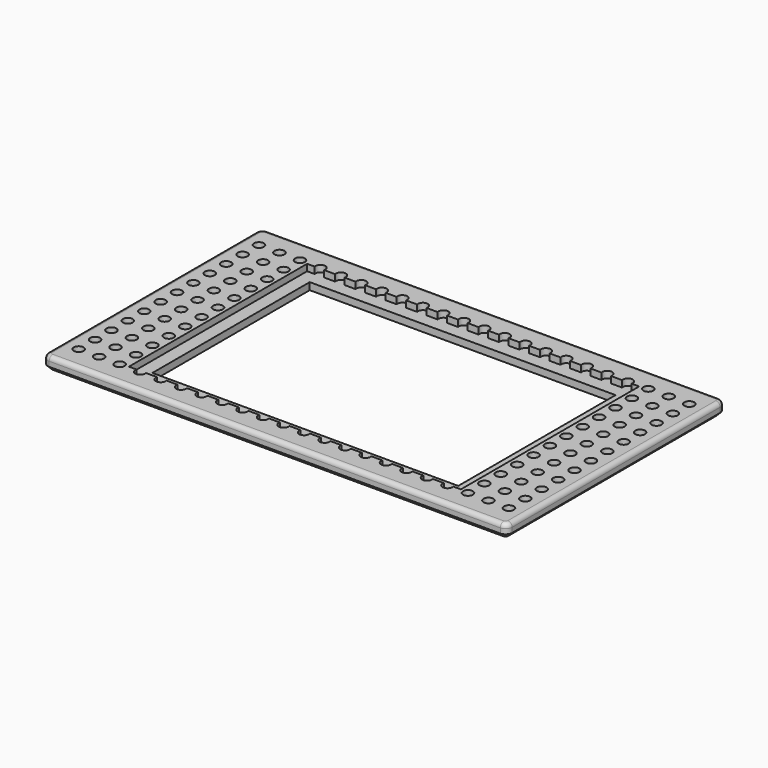
from build123d import *

# Parameters (mm, degrees)
F0_W      = 53.975
F0_H      = 31.75
F1_DEPTH  = 1.5875
F2_R      = 0.5715
F3_DEPTH  = 0.762
F4_R      = 0.762
F5_R      = 0.508
F6_SIZE   = 0.508
F7_W      = 38.608
F7_H      = 25.908
F8_DEPTH  = 0.762
F9_W      = 35.56
F9_H      = 22.86
F10_DEPTH = 25.4


with BuildPart() as f1:
    # F0 (on Top) → F1 (new body)
    with BuildSketch(Plane.XY):
        Rectangle(F0_W, F0_H)
    extrude(amount=F1_DEPTH)

    # F2 (on face) → F3 (cut)
    with BuildSketch(Plane.XY.offset(1.5875)):
        with Locations((-25.01646, -13.1064)):
            Circle(F2_R)
        with Locations((-25.01646, -10.72388)):
            Circle(F2_R)
        with Locations((-25.01646, -8.34136)):
            Circle(F2_R)
        with Locations((-25.01646, -5.95884)):
            Circle(F2_R)
        with Locations((-25.01646, -3.57632)):
            Circle(F2_R)
        with Locations((-25.01646, -1.1938)):
            Circle(F2_R)
        with Locations((-25.01646, 1.18872)):
            Circle(F2_R)
        with Locations((-25.01646, 3.57124)):
            Circle(F2_R)
        with Locations((-25.01646, 5.95376)):
            Circle(F2_R)
        with Locations((-25.01646, 8.33628)):
            Circle(F2_R)
        with Locations((-25.01646, 10.7188)):
            Circle(F2_R)
        with Locations((-25.01646, 13.10132)):
            Circle(F2_R)
        with Locations((-22.63394, -13.1064)):
            Circle(F2_R)
        with Locations((-22.63394, -10.72388)):
            Circle(F2_R)
        with Locations((-22.63394, -8.34136)):
            Circle(F2_R)
        with Locations((-22.63394, -5.95884)):
            Circle(F2_R)
        with Locations((-22.63394, -3.57632)):
            Circle(F2_R)
        with Locations((-22.63394, -1.1938)):
            Circle(F2_R)
        with Locations((-22.63394, 1.18872)):
            Circle(F2_R)
        with Locations((-22.63394, 3.57124)):
            Circle(F2_R)
        with Locations((-22.63394, 5.95376)):
            Circle(F2_R)
        with Locations((-22.63394, 8.33628)):
            Circle(F2_R)
        with Locations((-22.63394, 10.7188)):
            Circle(F2_R)
        with Locations((-22.63394, 13.10132)):
            Circle(F2_R)
        with Locations((-20.25142, -13.1064)):
            Circle(F2_R)
        with Locations((-20.25142, -10.72388)):
            Circle(F2_R)
        with Locations((-20.25142, -8.34136)):
            Circle(F2_R)
        with Locations((-20.25142, -5.95884)):
            Circle(F2_R)
        with Locations((-20.25142, -3.57632)):
            Circle(F2_R)
        with Locations((-20.25142, -1.1938)):
            Circle(F2_R)
        with Locations((-20.25142, 1.18872)):
            Circle(F2_R)
        with Locations((-20.25142, 3.57124)):
            Circle(F2_R)
        with Locations((-20.25142, 5.95376)):
            Circle(F2_R)
        with Locations((-20.25142, 8.33628)):
            Circle(F2_R)
        with Locations((-20.25142, 10.7188)):
            Circle(F2_R)
        with Locations((-20.25142, 13.10132)):
            Circle(F2_R)
        with Locations((-17.8689, -13.1064)):
            Circle(F2_R)
        with Locations((-17.8689, -10.72388)):
            Circle(F2_R)
        with Locations((-17.8689, -8.34136)):
            Circle(F2_R)
        with Locations((-17.8689, -5.95884)):
            Circle(F2_R)
        with Locations((-17.8689, -3.57632)):
            Circle(F2_R)
        with Locations((-17.8689, -1.1938)):
            Circle(F2_R)
        with Locations((-17.8689, 1.18872)):
            Circle(F2_R)
        with Locations((-17.8689, 3.57124)):
            Circle(F2_R)
        with Locations((-17.8689, 5.95376)):
            Circle(F2_R)
        with Locations((-17.8689, 8.33628)):
            Circle(F2_R)
        with Locations((-17.8689, 10.7188)):
            Circle(F2_R)
        with Locations((-17.8689, 13.10132)):
            Circle(F2_R)
        with Locations((-15.48638, -13.1064)):
            Circle(F2_R)
        with Locations((-15.48638, -10.72388)):
            Circle(F2_R)
        with Locations((-15.48638, -8.34136)):
            Circle(F2_R)
        with Locations((-15.48638, -5.95884)):
            Circle(F2_R)
        with Locations((-15.48638, -3.57632)):
            Circle(F2_R)
        with Locations((-15.48638, -1.1938)):
            Circle(F2_R)
        with Locations((-15.48638, 1.18872)):
            Circle(F2_R)
        with Locations((-15.48638, 3.57124)):
            Circle(F2_R)
        with Locations((-15.48638, 5.95376)):
            Circle(F2_R)
        with Locations((-15.48638, 8.33628)):
            Circle(F2_R)
        with Locations((-15.48638, 10.7188)):
            Circle(F2_R)
        with Locations((-15.48638, 13.10132)):
            Circle(F2_R)
        with Locations((-13.10386, -13.1064)):
            Circle(F2_R)
        with Locations((-13.10386, -10.72388)):
            Circle(F2_R)
        with Locations((-13.10386, -8.34136)):
            Circle(F2_R)
        with Locations((-13.10386, -5.95884)):
            Circle(F2_R)
        with Locations((-13.10386, -3.57632)):
            Circle(F2_R)
        with Locations((-13.10386, -1.1938)):
            Circle(F2_R)
        with Locations((-13.10386, 1.18872)):
            Circle(F2_R)
        with Locations((-13.10386, 3.57124)):
            Circle(F2_R)
        with Locations((-13.10386, 5.95376)):
            Circle(F2_R)
        with Locations((-13.10386, 8.33628)):
            Circle(F2_R)
        with Locations((-13.10386, 10.7188)):
            Circle(F2_R)
        with Locations((-13.10386, 13.10132)):
            Circle(F2_R)
        with Locations((-10.72134, -13.1064)):
            Circle(F2_R)
        with Locations((-10.72134, -10.72388)):
            Circle(F2_R)
        with Locations((-10.72134, -8.34136)):
            Circle(F2_R)
        with Locations((-10.72134, -5.95884)):
            Circle(F2_R)
        with Locations((-10.72134, -3.57632)):
            Circle(F2_R)
        with Locations((-10.72134, -1.1938)):
            Circle(F2_R)
        with Locations((-10.72134, 1.18872)):
            Circle(F2_R)
        with Locations((-10.72134, 3.57124)):
            Circle(F2_R)
        with Locations((-10.72134, 5.95376)):
            Circle(F2_R)
        with Locations((-10.72134, 8.33628)):
            Circle(F2_R)
        with Locations((-10.72134, 10.7188)):
            Circle(F2_R)
        with Locations((-10.72134, 13.10132)):
            Circle(F2_R)
        with Locations((-8.33882, -13.1064)):
            Circle(F2_R)
        with Locations((-8.33882, -10.72388)):
            Circle(F2_R)
        with Locations((-8.33882, -8.34136)):
            Circle(F2_R)
        with Locations((-8.33882, -5.95884)):
            Circle(F2_R)
        with Locations((-8.33882, -3.57632)):
            Circle(F2_R)
        with Locations((-8.33882, -1.1938)):
            Circle(F2_R)
        with Locations((-8.33882, 1.18872)):
            Circle(F2_R)
        with Locations((-8.33882, 3.57124)):
            Circle(F2_R)
        with Locations((-8.33882, 5.95376)):
            Circle(F2_R)
        with Locations((-8.33882, 8.33628)):
            Circle(F2_R)
        with Locations((-8.33882, 10.7188)):
            Circle(F2_R)
        with Locations((-8.33882, 13.10132)):
            Circle(F2_R)
        with Locations((-5.9563, -13.1064)):
            Circle(F2_R)
        with Locations((-5.9563, -10.72388)):
            Circle(F2_R)
        with Locations((-5.9563, -8.34136)):
            Circle(F2_R)
        with Locations((-5.9563, -5.95884)):
            Circle(F2_R)
        with Locations((-5.9563, -3.57632)):
            Circle(F2_R)
        with Locations((-5.9563, -1.1938)):
            Circle(F2_R)
        with Locations((-5.9563, 1.18872)):
            Circle(F2_R)
        with Locations((-5.9563, 3.57124)):
            Circle(F2_R)
        with Locations((-5.9563, 5.95376)):
            Circle(F2_R)
        with Locations((-5.9563, 8.33628)):
            Circle(F2_R)
        with Locations((-5.9563, 10.7188)):
            Circle(F2_R)
        with Locations((-5.9563, 13.10132)):
            Circle(F2_R)
        with Locations((-3.57378, -13.1064)):
            Circle(F2_R)
        with Locations((-3.57378, -10.72388)):
            Circle(F2_R)
        with Locations((-3.57378, -8.34136)):
            Circle(F2_R)
        with Locations((-3.57378, -5.95884)):
            Circle(F2_R)
        with Locations((-3.57378, -3.57632)):
            Circle(F2_R)
        with Locations((-3.57378, -1.1938)):
            Circle(F2_R)
        with Locations((-3.57378, 1.18872)):
            Circle(F2_R)
        with Locations((-3.57378, 3.57124)):
            Circle(F2_R)
        with Locations((-3.57378, 5.95376)):
            Circle(F2_R)
        with Locations((-3.57378, 8.33628)):
            Circle(F2_R)
        with Locations((-3.57378, 10.7188)):
            Circle(F2_R)
        with Locations((-3.57378, 13.10132)):
            Circle(F2_R)
        with Locations((-1.19126, -13.1064)):
            Circle(F2_R)
        with Locations((-1.19126, -10.72388)):
            Circle(F2_R)
        with Locations((-1.19126, -8.34136)):
            Circle(F2_R)
        with Locations((-1.19126, -5.95884)):
            Circle(F2_R)
        with Locations((-1.19126, -3.57632)):
            Circle(F2_R)
        with Locations((-1.19126, -1.1938)):
            Circle(F2_R)
        with Locations((-1.19126, 1.18872)):
            Circle(F2_R)
        with Locations((-1.19126, 3.57124)):
            Circle(F2_R)
        with Locations((-1.19126, 5.95376)):
            Circle(F2_R)
        with Locations((-1.19126, 8.33628)):
            Circle(F2_R)
        with Locations((-1.19126, 10.7188)):
            Circle(F2_R)
        with Locations((-1.19126, 13.10132)):
            Circle(F2_R)
        with Locations((1.19126, -13.1064)):
            Circle(F2_R)
        with Locations((1.19126, -10.72388)):
            Circle(F2_R)
        with Locations((1.19126, -8.34136)):
            Circle(F2_R)
        with Locations((1.19126, -5.95884)):
            Circle(F2_R)
        with Locations((1.19126, -3.57632)):
            Circle(F2_R)
        with Locations((1.19126, -1.1938)):
            Circle(F2_R)
        with Locations((1.19126, 1.18872)):
            Circle(F2_R)
        with Locations((1.19126, 3.57124)):
            Circle(F2_R)
        with Locations((1.19126, 5.95376)):
            Circle(F2_R)
        with Locations((1.19126, 8.33628)):
            Circle(F2_R)
        with Locations((1.19126, 10.7188)):
            Circle(F2_R)
        with Locations((1.19126, 13.10132)):
            Circle(F2_R)
        with Locations((3.57378, -13.1064)):
            Circle(F2_R)
        with Locations((3.57378, -10.72388)):
            Circle(F2_R)
        with Locations((3.57378, -8.34136)):
            Circle(F2_R)
        with Locations((3.57378, -5.95884)):
            Circle(F2_R)
        with Locations((3.57378, -3.57632)):
            Circle(F2_R)
        with Locations((3.57378, -1.1938)):
            Circle(F2_R)
        with Locations((3.57378, 1.18872)):
            Circle(F2_R)
        with Locations((3.57378, 3.57124)):
            Circle(F2_R)
        with Locations((3.57378, 5.95376)):
            Circle(F2_R)
        with Locations((3.57378, 8.33628)):
            Circle(F2_R)
        with Locations((3.57378, 10.7188)):
            Circle(F2_R)
        with Locations((3.57378, 13.10132)):
            Circle(F2_R)
        with Locations((5.9563, -13.1064)):
            Circle(F2_R)
        with Locations((5.9563, -10.72388)):
            Circle(F2_R)
        with Locations((5.9563, -8.34136)):
            Circle(F2_R)
        with Locations((5.9563, -5.95884)):
            Circle(F2_R)
        with Locations((5.9563, -3.57632)):
            Circle(F2_R)
        with Locations((5.9563, -1.1938)):
            Circle(F2_R)
        with Locations((5.9563, 1.18872)):
            Circle(F2_R)
        with Locations((5.9563, 3.57124)):
            Circle(F2_R)
        with Locations((5.9563, 5.95376)):
            Circle(F2_R)
        with Locations((5.9563, 8.33628)):
            Circle(F2_R)
        with Locations((5.9563, 10.7188)):
            Circle(F2_R)
        with Locations((5.9563, 13.10132)):
            Circle(F2_R)
        with Locations((8.33882, -13.1064)):
            Circle(F2_R)
        with Locations((8.33882, -10.72388)):
            Circle(F2_R)
        with Locations((8.33882, -8.34136)):
            Circle(F2_R)
        with Locations((8.33882, -5.95884)):
            Circle(F2_R)
        with Locations((8.33882, -3.57632)):
            Circle(F2_R)
        with Locations((8.33882, -1.1938)):
            Circle(F2_R)
        with Locations((8.33882, 1.18872)):
            Circle(F2_R)
        with Locations((8.33882, 3.57124)):
            Circle(F2_R)
        with Locations((8.33882, 5.95376)):
            Circle(F2_R)
        with Locations((8.33882, 8.33628)):
            Circle(F2_R)
        with Locations((8.33882, 10.7188)):
            Circle(F2_R)
        with Locations((8.33882, 13.10132)):
            Circle(F2_R)
        with Locations((10.72134, -13.1064)):
            Circle(F2_R)
        with Locations((10.72134, -10.72388)):
            Circle(F2_R)
        with Locations((10.72134, -8.34136)):
            Circle(F2_R)
        with Locations((10.72134, -5.95884)):
            Circle(F2_R)
        with Locations((10.72134, -3.57632)):
            Circle(F2_R)
        with Locations((10.72134, -1.1938)):
            Circle(F2_R)
        with Locations((10.72134, 1.18872)):
            Circle(F2_R)
        with Locations((10.72134, 3.57124)):
            Circle(F2_R)
        with Locations((10.72134, 5.95376)):
            Circle(F2_R)
        with Locations((10.72134, 8.33628)):
            Circle(F2_R)
        with Locations((10.72134, 10.7188)):
            Circle(F2_R)
        with Locations((10.72134, 13.10132)):
            Circle(F2_R)
        with Locations((13.10386, -13.1064)):
            Circle(F2_R)
        with Locations((13.10386, -10.72388)):
            Circle(F2_R)
        with Locations((13.10386, -8.34136)):
            Circle(F2_R)
        with Locations((13.10386, -5.95884)):
            Circle(F2_R)
        with Locations((13.10386, -3.57632)):
            Circle(F2_R)
        with Locations((13.10386, -1.1938)):
            Circle(F2_R)
        with Locations((13.10386, 1.18872)):
            Circle(F2_R)
        with Locations((13.10386, 3.57124)):
            Circle(F2_R)
        with Locations((13.10386, 5.95376)):
            Circle(F2_R)
        with Locations((13.10386, 8.33628)):
            Circle(F2_R)
        with Locations((13.10386, 10.7188)):
            Circle(F2_R)
        with Locations((13.10386, 13.10132)):
            Circle(F2_R)
        with Locations((15.48638, -13.1064)):
            Circle(F2_R)
        with Locations((15.48638, -10.72388)):
            Circle(F2_R)
        with Locations((15.48638, -8.34136)):
            Circle(F2_R)
        with Locations((15.48638, -5.95884)):
            Circle(F2_R)
        with Locations((15.48638, -3.57632)):
            Circle(F2_R)
        with Locations((15.48638, -1.1938)):
            Circle(F2_R)
        with Locations((15.48638, 1.18872)):
            Circle(F2_R)
        with Locations((15.48638, 3.57124)):
            Circle(F2_R)
        with Locations((15.48638, 5.95376)):
            Circle(F2_R)
        with Locations((15.48638, 8.33628)):
            Circle(F2_R)
        with Locations((15.48638, 10.7188)):
            Circle(F2_R)
        with Locations((15.48638, 13.10132)):
            Circle(F2_R)
        with Locations((17.8689, -13.1064)):
            Circle(F2_R)
        with Locations((17.8689, -10.72388)):
            Circle(F2_R)
        with Locations((17.8689, -8.34136)):
            Circle(F2_R)
        with Locations((17.8689, -5.95884)):
            Circle(F2_R)
        with Locations((17.8689, -3.57632)):
            Circle(F2_R)
        with Locations((17.8689, -1.1938)):
            Circle(F2_R)
        with Locations((17.8689, 1.18872)):
            Circle(F2_R)
        with Locations((17.8689, 3.57124)):
            Circle(F2_R)
        with Locations((17.8689, 5.95376)):
            Circle(F2_R)
        with Locations((17.8689, 8.33628)):
            Circle(F2_R)
        with Locations((17.8689, 10.7188)):
            Circle(F2_R)
        with Locations((17.8689, 13.10132)):
            Circle(F2_R)
        with Locations((20.25142, -13.1064)):
            Circle(F2_R)
        with Locations((20.25142, -10.72388)):
            Circle(F2_R)
        with Locations((20.25142, -8.34136)):
            Circle(F2_R)
        with Locations((20.25142, -5.95884)):
            Circle(F2_R)
        with Locations((20.25142, -3.57632)):
            Circle(F2_R)
        with Locations((20.25142, -1.1938)):
            Circle(F2_R)
        with Locations((20.25142, 1.18872)):
            Circle(F2_R)
        with Locations((20.25142, 3.57124)):
            Circle(F2_R)
        with Locations((20.25142, 5.95376)):
            Circle(F2_R)
        with Locations((20.25142, 8.33628)):
            Circle(F2_R)
        with Locations((20.25142, 10.7188)):
            Circle(F2_R)
        with Locations((20.25142, 13.10132)):
            Circle(F2_R)
        with Locations((22.63394, -13.1064)):
            Circle(F2_R)
        with Locations((22.63394, -10.72388)):
            Circle(F2_R)
        with Locations((22.63394, -8.34136)):
            Circle(F2_R)
        with Locations((22.63394, -5.95884)):
            Circle(F2_R)
        with Locations((22.63394, -3.57632)):
            Circle(F2_R)
        with Locations((22.63394, -1.1938)):
            Circle(F2_R)
        with Locations((22.63394, 1.18872)):
            Circle(F2_R)
        with Locations((22.63394, 3.57124)):
            Circle(F2_R)
        with Locations((22.63394, 5.95376)):
            Circle(F2_R)
        with Locations((22.63394, 8.33628)):
            Circle(F2_R)
        with Locations((22.63394, 10.7188)):
            Circle(F2_R)
        with Locations((22.63394, 13.10132)):
            Circle(F2_R)
        with Locations((25.01646, -13.1064)):
            Circle(F2_R)
        with Locations((25.01646, -10.72388)):
            Circle(F2_R)
        with Locations((25.01646, -8.34136)):
            Circle(F2_R)
        with Locations((25.01646, -5.95884)):
            Circle(F2_R)
        with Locations((25.01646, -3.57632)):
            Circle(F2_R)
        with Locations((25.01646, -1.1938)):
            Circle(F2_R)
        with Locations((25.01646, 1.18872)):
            Circle(F2_R)
        with Locations((25.01646, 3.57124)):
            Circle(F2_R)
        with Locations((25.01646, 5.95376)):
            Circle(F2_R)
        with Locations((25.01646, 8.33628)):
            Circle(F2_R)
        with Locations((25.01646, 10.7188)):
            Circle(F2_R)
        with Locations((25.01646, 13.10132)):
            Circle(F2_R)
    extrude(amount=-F3_DEPTH, mode=Mode.SUBTRACT)

    # F4
    f4_edges = [f1.edges().sort_by_distance(p)[0] for p in [
        (-26.9875, -15.875, 0.79375),
        (-26.9875, 15.875, 0.79375),
        (26.9875, 15.875, 0.79375),
        (26.9875, -15.875, 0.79375),
    ]]
    fillet(f4_edges, radius=F4_R)

    # F5
    f5_edges = [f1.edges().sort_by_distance(p)[0] for p in [
        (26.9875, 0, 1.5875),
    ]]
    fillet(f5_edges, radius=F5_R)

    # F6
    f6_edges = [f1.edges().sort_by_distance(p)[0] for p in [
        (26.9875, 0, 0),
    ]]
    chamfer(f6_edges, length=F6_SIZE)

    # F7 (on face) → F8 (cut)
    with BuildSketch(Plane.XY.offset(1.5875)):
        Rectangle(F7_W, F7_H)
    extrude(amount=-F8_DEPTH, mode=Mode.SUBTRACT)

    # F9 (on face) → F10 (cut)
    with BuildSketch(Plane.XY.offset(0.8255)):
        Rectangle(F9_W, F9_H)
    extrude(amount=-F10_DEPTH, mode=Mode.SUBTRACT)


solid = f1.part
